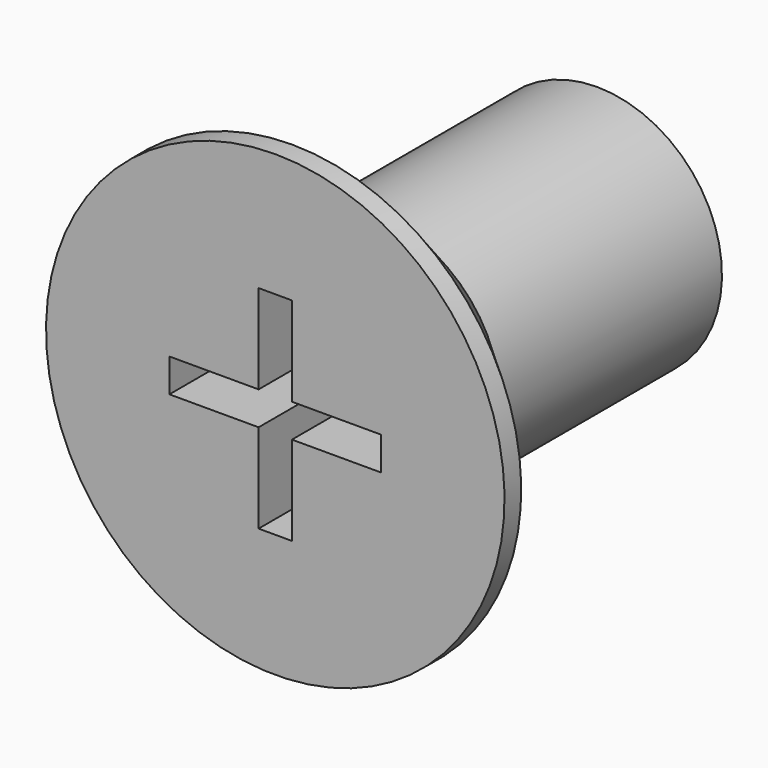
from build123d import *

# Parameters (mm, degrees)
POCKET_DEPTH = 3.81


with BuildPart() as part:
    # Sketch → Revolution (revolve)
    with BuildSketch(Plane.YZ):
        Polygon((0, 0), (0, 5.5), (0.5, 5.5), (3, 3), (9.64493, 3), (10, 2.385), (10, 0), align=None)
    revolve(axis=Axis((0, 0, 0), (0, 1, 0)))

    # Sketch001 → Pocket (cut)
    with BuildSketch(Plane(origin=(0, 0, 0), x_dir=(0, 0, -1), z_dir=(0, -1, 0))):
        Polygon((-2.54, 0.4), (-0.4, 0.4), (-0.4, 2.54), (0.4, 2.54), (0.4, 0.4), (2.54, 0.4), (2.54, -0.4), (0.4, -0.4), (0.4, -2.54), (-0.4, -2.54), (-0.4, -0.4), (-2.54, -0.4), align=None)
    extrude(amount=-POCKET_DEPTH, mode=Mode.SUBTRACT)


solid = part.part
